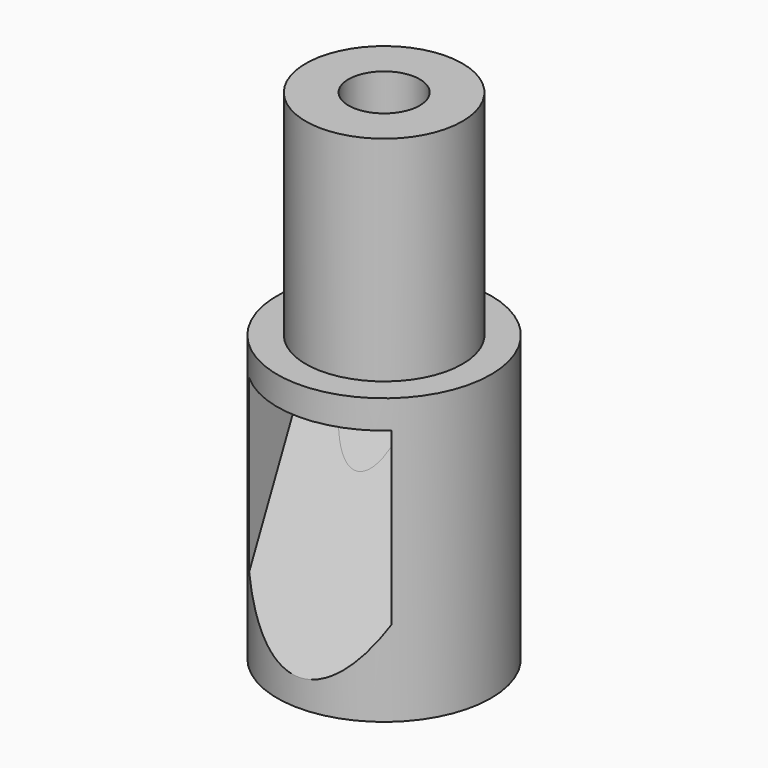
from build123d import *

# Parameters (mm, degrees)
F3_DEPTH = 5
F5_DEPTH = 4


with BuildPart() as f1:
    # F0 (on Front) → F1 (revolve)
    with BuildSketch(Plane.XZ):
        Polygon((5.5, 0), (7.5, 0), (7.5, 20), (5.5, 20), (5.5, 35), (2.5, 35), (2.5, 5), (4.5, 5), align=None)
    revolve(axis=Axis((0, 0, 9.491472), (0, 0, -1)))

    # F2 (on Right) → F3 (cut, symmetric)
    with BuildSketch(Plane.YZ):
        Polygon((-10.691921, 18), (-10.691921, -4.928898), (0, 18), align=None)
    extrude(amount=F3_DEPTH, both=True, mode=Mode.SUBTRACT)


with BuildPart() as f5:
    # F4 (on Right) → F5 (new body, symmetric)
    with BuildSketch(Plane.YZ):
        Polygon((-5.999954, 4.999613), (0.062226, 4.999613), (0.062226, 18), align=None)
    extrude(amount=F5_DEPTH, both=True)


solid = Compound([f1.part, f5.part])
